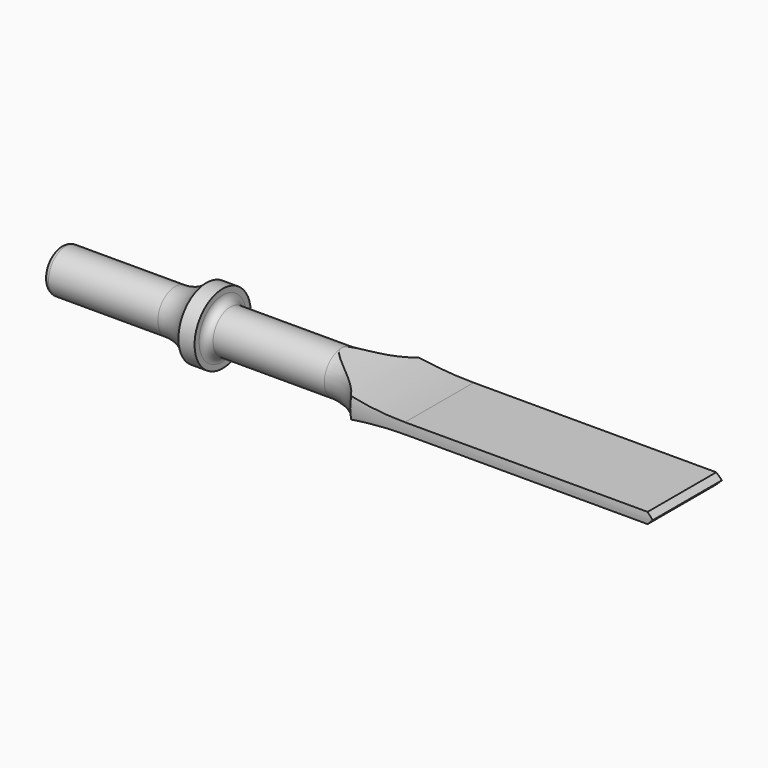
from build123d import *

# Parameters (mm, degrees)
F3_DEPTH = 25.4
F4_DEPTH = 25.4
F6_DEPTH = 25.4
F7_DEPTH = 25.4


with BuildPart() as f1:
    # F0 (on Front) → F1 (revolve)
    with BuildSketch(Plane.XZ):
        with BuildLine():
            Line((0, 4.826), (0, 0))
            Line((0, 0), (184.15, 0))
            Line((184.15, 0), (184.15, 12.7))
            Line((184.15, 12.7), (95.25, 12.7))
            ThreePointArc((95.25, 12.7), (89.649516, 8.025968), (82.55, 6.35))
            Line((82.55, 6.35), (49.8856, 6.35))
            ThreePointArc((49.8856, 6.35), (48.269154, 7.019554), (47.5996, 8.636))
            Line((47.5996, 8.636), (47.5996, 10.3124))
            Line((47.5996, 10.3124), (42.8498, 10.3124))
            ThreePointArc((42.8498, 10.3124), (38.649372, 7.382577), (33.633274, 6.35))
            Line((33.633274, 6.35), (1.524, 6.35))
            ThreePointArc((1.524, 6.35), (0.446369, 5.903631), (0, 4.826))
        make_face()
    revolve(axis=Axis((92.075, 0, 0), (1, 0, 0)))

    # F2 (on Front) → F3 (cut)
    with BuildSketch(Plane.XZ):
        with BuildLine():
            Line((299.925119, 1.5875), (179.814342, 147.083428))
            ThreePointArc((179.814342, 147.083428), (30.837499, 128.380982), (111.256987, 1.5875))
            Line((111.256987, 1.5875), (299.925119, 1.5875))
        make_face()
        with BuildLine():
            Line((299.925119, -1.5875), (111.256987, -1.5875))
            ThreePointArc((111.256987, -1.5875), (30.837499, -128.380982), (179.814342, -147.083428))
            Line((179.814342, -147.083428), (299.925119, -1.5875))
        make_face()
    extrude(amount=-F3_DEPTH, mode=Mode.SUBTRACT)

    # F2 (on Front) → F4 (cut)
    with BuildSketch(Plane.XZ):
        with BuildLine():
            Line((299.925119, 1.5875), (179.814342, 147.083428))
            ThreePointArc((179.814342, 147.083428), (30.837499, 128.380982), (111.256987, 1.5875))
            Line((111.256987, 1.5875), (299.925119, 1.5875))
        make_face()
        with BuildLine():
            Line((299.925119, -1.5875), (111.256987, -1.5875))
            ThreePointArc((111.256987, -1.5875), (30.837499, -128.380982), (179.814342, -147.083428))
            Line((179.814342, -147.083428), (299.925119, -1.5875))
        make_face()
    extrude(amount=F4_DEPTH, mode=Mode.SUBTRACT)

    # F5 (on Front) → F6 (cut)
    with BuildSketch(Plane.XZ):
        Polygon((184.15, -3.802141), (184.15, 0), (180.61569, -3.53431), align=None)
        Polygon((180.61569, 3.53431), (184.15, 0), (184.15, 3.802141), align=None)
    extrude(amount=-F6_DEPTH, mode=Mode.SUBTRACT)

    # F5 (on Front) → F7 (cut)
    with BuildSketch(Plane.XZ):
        Polygon((180.61569, 3.53431), (184.15, 0), (184.15, 3.802141), align=None)
        Polygon((184.15, -3.802141), (184.15, 0), (180.61569, -3.53431), align=None)
    extrude(amount=F7_DEPTH, mode=Mode.SUBTRACT)


solid = f1.part
